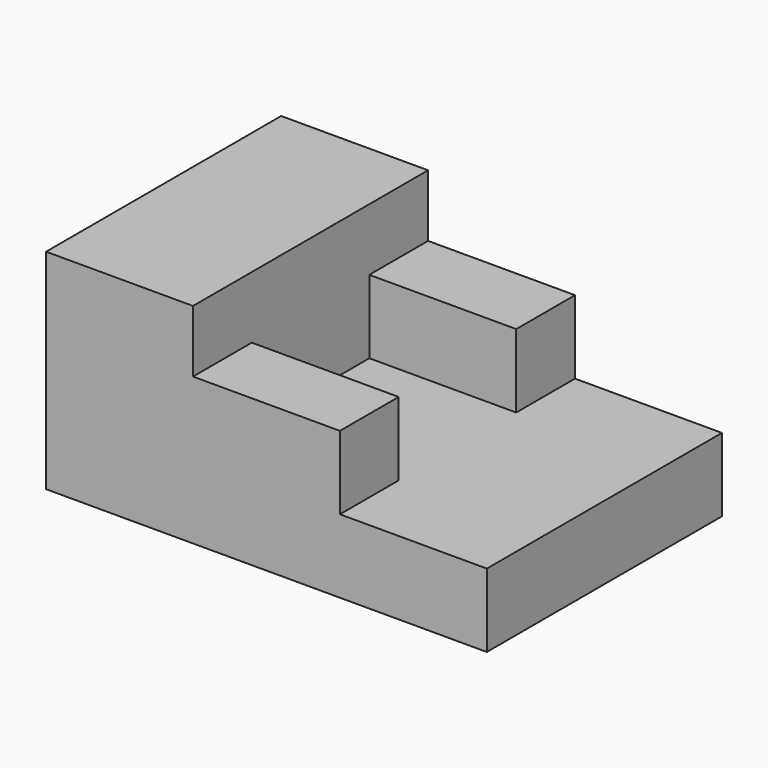
from build123d import *

# Parameters (mm, degrees)
F1_DEPTH = 40
F2_W     = 20
F2_H     = 10
F3_DEPTH = 10
F4_W     = 20
F4_H     = 10
F5_DEPTH = 10


with BuildPart() as f1:
    # F0 (on Front) → F1 (new body)
    with BuildSketch(Plane.XZ):
        Polygon((0, 28.463914), (0, 0), (60, 0), (60, 10), (20, 10), (20, 28.463914), align=None)
    extrude(amount=F1_DEPTH)

    # F2 (on face) → F3 (join)
    with BuildSketch(Plane.XY.offset(10)):
        with Locations((30, -35)):
            Rectangle(F2_W, F2_H)
    extrude(amount=F3_DEPTH)

    # F4 (on face) → F5 (join)
    with BuildSketch(Plane.XY.offset(10)):
        with Locations((30, -5)):
            Rectangle(F4_W, F4_H)
    extrude(amount=F5_DEPTH)


solid = f1.part
